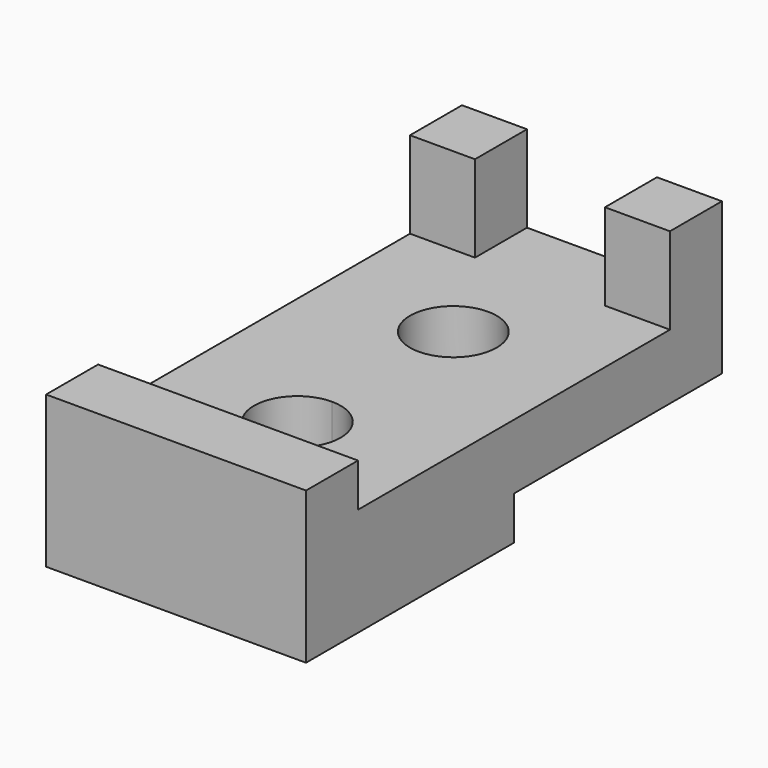
from build123d import *

# Parameters (mm, degrees)
F0_W     = 60
F0_H     = 15
F0_H_2   = 45
F1_DEPTH = 10
F2_DEPTH = 25
F3_DEPTH = 15
F0_W_2   = 15
F4_DEPTH = 15
F5_W     = 15
F5_H     = 15
F6_DEPTH = 20
F8_DEPTH = 40


with BuildPart() as f1:
    # F0 (on Top) → F1 (new body)
    with BuildSketch(Plane.XY):
        with Locations((0, -52.5)):
            Rectangle(F0_W, F0_H)
        with Locations((0, -22.5)):
            Rectangle(F0_W, F0_H_2)
    extrude(amount=-F1_DEPTH)

    # F0 (on Top) → F2 (join)
    with BuildSketch(Plane.XY):
        with Locations((0, -52.5)):
            Rectangle(F0_W, F0_H)
    extrude(amount=F2_DEPTH)

    # F0 (on Top) → F3 (join)
    with BuildSketch(Plane.XY):
        with Locations((0, -22.5)):
            Rectangle(F0_W, F0_H_2)
    extrude(amount=F3_DEPTH)

    # F0 (on Top) → F4 (join, through all)
    with BuildSketch(Plane.XY):
        with Locations((22.5, 52.5)):
            Rectangle(F0_W_2, F0_H)
        Polygon((15, 45), (15, 60), (-15, 60), (-15, 45), (-30, 45), (-30, 0), (30, 0), (30, 45), align=None)
        with Locations((-22.5, 52.5)):
            Rectangle(F0_W_2, F0_H)
    extrude(amount=F4_DEPTH)

    # F5 (on face) → F6 (join)
    with BuildSketch(Plane.XY.offset(15)):
        with Locations((-22.5, 52.5)):
            Rectangle(F5_W, F5_H)
        with Locations((22.5, 52.5)):
            Rectangle(F5_W, F5_H)
    extrude(amount=F6_DEPTH)

    # F7 (on face) → F8 (cut)
    with BuildSketch(Plane.XY.offset(15)):
        with BuildLine():
            ThreePointArc((10, 20), (-7.071068, 27.071068), (0, 10))
            ThreePointArc((0, 10), (7.071068, 12.928932), (10, 20))
        make_face()
        with BuildLine():
            Line((0, -25), (0, -35))
            ThreePointArc((0, -35), (7.071068, -32.071068), (10, -25))
            ThreePointArc((10, -25), (7.071068, -17.928932), (0, -15))
            Line((0, -15), (0, -25))
        make_face()
        with BuildLine():
            ThreePointArc((0, -15), (-10, -25), (0, -35))
            Line((0, -35), (0, -25))
            Line((0, -25), (0, -15))
        make_face()
    extrude(amount=-F8_DEPTH, mode=Mode.SUBTRACT)


solid = f1.part
